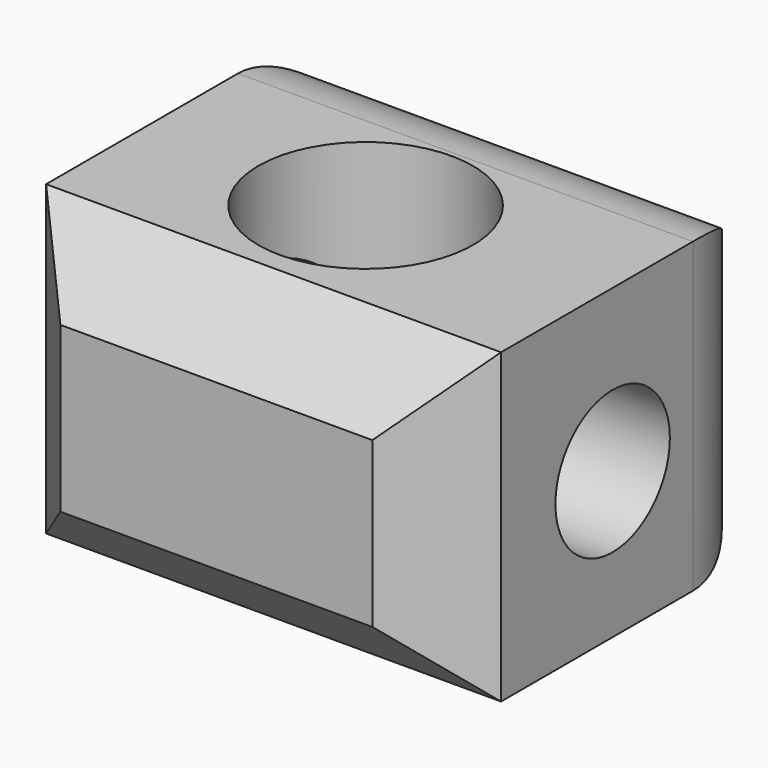
from build123d import *

# Parameters (mm, degrees)
F1_W     = 63.614873
F1_H     = 42.992467
F2_DEPTH = 58
F3_R     = 14.485281
F4_SIZE  = 10
F6_D     = 30
F8_D     = 20


with BuildPart() as f2:
    # F1 (on face) → F2 (new body)
    with BuildSketch(Plane.XZ):
        with Locations((4.01963, 1.048599)):
            Rectangle(F1_W, F1_H)
    extrude(amount=-F2_DEPTH)

    # F3
    f3_edges = [f2.edges().sort_by_distance(p)[0] for p in [
        (-27.787806, 58, 1.048599),
        (4.01963, 58, 22.544833),
        (35.827067, 58, 1.048599),
        (4.01963, 58, -20.447634),
    ]]
    fillet(f3_edges, radius=F3_R)

    # F4
    f4_edges = [f2.edges().sort_by_distance(p)[0] for p in [
        (35.827067, 0, 1.048599),
        (4.01963, 0, -20.447634),
        (-27.787806, 0, 1.048599),
        (4.01963, 0, 22.544833),
    ]]
    chamfer(f4_edges, length=F4_SIZE)

    # F6 (through all)
    with Locations(Plane.XY.offset(22.544833)):
        with Locations((2.594914, 27.867122)):
            Hole(F6_D / 2)

    # F8 (through all)
    with Locations(Plane(origin=(-27.787806, 0, 0), x_dir=(0, -1, 0), z_dir=(-1, 0, 0))):
        with Locations((-29.496336, 0)):
            Hole(F8_D / 2)


solid = f2.part
